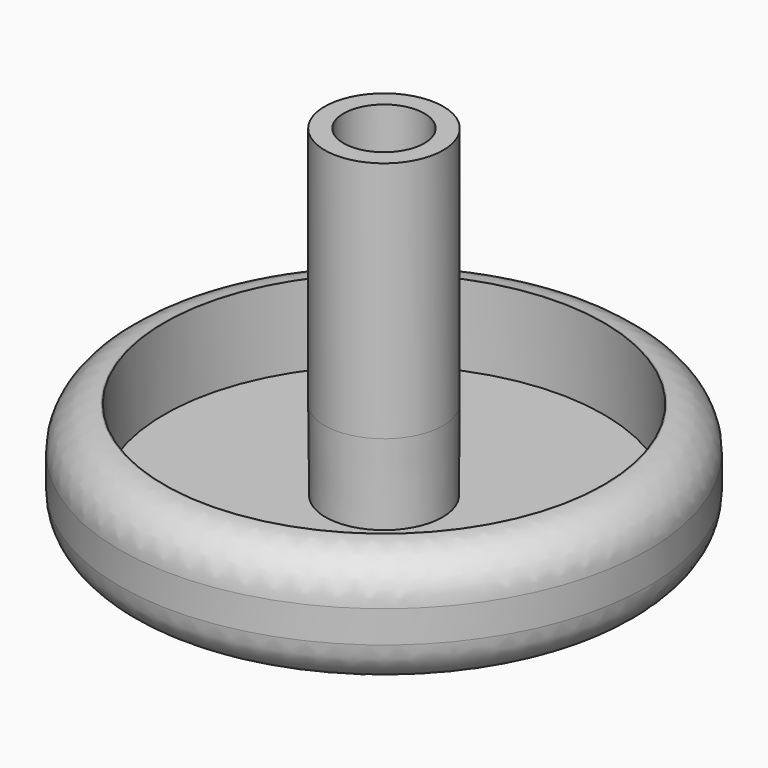
from build123d import *

# Parameters (mm, degrees)
F2_R     = 4.7625
F3_DEPTH = 9.525
F4_R     = 1.5875
F5_DEPTH = 22.225
F6_R     = 5.08


with BuildPart() as f1:
    # F0 (on Front) → F1 (revolve)
    with BuildSketch(Plane.XZ):
        Polygon((3.81, 1.888357), (31.115, 9.508357), (31.115, 22.208357), (25.902521, 22.208692), (25.902521, 12.683692), (6.905095, 12.683692), (6.985, 22.208357), (6.985, 50.8), (0, 50.8), (0, 1.888357), align=None)
    revolve(axis=Axis((0, 0, 26.344178), (0, 0, -1)))

    # F2 (on face) → F3 (cut)
    with BuildSketch(Plane.XY.offset(50.8)):
        Circle(F2_R)
    extrude(amount=-F3_DEPTH, mode=Mode.SUBTRACT)

    # F4 (on face) → F5 (cut)
    with BuildSketch(Plane(origin=(0, 0, 1.888357), x_dir=(1, 0, 0), z_dir=(0, 0, -1))):
        Circle(F4_R)
    extrude(amount=-F5_DEPTH, mode=Mode.SUBTRACT)

    # F6
    f6_edges = [f1.edges().sort_by_distance(p)[0] for p in [
        (-31.115, 0, 9.508357),
        (-31.115, 0, 22.208357),
        (31.115, 0, 15.858357),
    ]]
    fillet(f6_edges, radius=F6_R)


solid = f1.part
